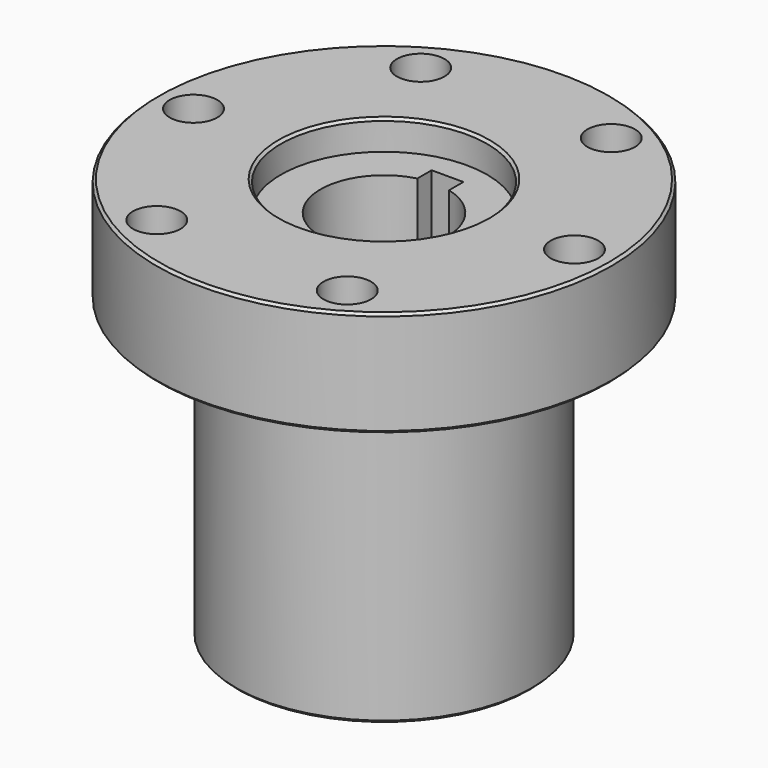
from build123d import *

# Parameters (mm, degrees)
F0_R      = 68.2625
F0_R_2    = 7.14375
F0_R_3    = 19.05
F1_DEPTH  = 31.75
F2_R      = 30.95625
F3_DEPTH  = 8.89
F4_R      = 44.45
F4_R_2    = 19.05
F5_DEPTH  = 88.9
F7_DEPTH  = 120.651
F8_SIZE   = 0.762
F9_R      = 1.5875
F10_DEPTH = 76.2


with BuildPart() as f1:
    # F0 (on Top) → F1 (new body)
    with BuildSketch(Plane.XY):
        Circle(F0_R)
        with Locations((-28.575, -49.493352)):
            Circle(F0_R_2, mode=Mode.SUBTRACT)
        with Locations((28.575, -49.493352)):
            Circle(F0_R_2, mode=Mode.SUBTRACT)
        with Locations((-57.15, 0)):
            Circle(F0_R_2, mode=Mode.SUBTRACT)
        with Locations((-28.575, 49.493352)):
            Circle(F0_R_2, mode=Mode.SUBTRACT)
        Circle(F0_R_3, mode=Mode.SUBTRACT)
        with Locations((57.15, 0)):
            Circle(F0_R_2, mode=Mode.SUBTRACT)
        with Locations((28.575, 49.493352)):
            Circle(F0_R_2, mode=Mode.SUBTRACT)
    extrude(amount=F1_DEPTH)

    # F2 (on face) → F3 (cut)
    with BuildSketch(Plane.XY.offset(31.75)):
        Circle(F2_R)
    extrude(amount=-F3_DEPTH, mode=Mode.SUBTRACT)

    # F4 (on face) → F5 (join)
    with BuildSketch(Plane(origin=(0, 0, 0), x_dir=(1, 0, 0), z_dir=(0, 0, -1))):
        Circle(F4_R)
        Circle(F4_R_2, mode=Mode.SUBTRACT)
    extrude(amount=F5_DEPTH)

    # F6 (on face) → F7 (cut, through all)
    with BuildSketch(Plane(origin=(0, 0, -88.9), x_dir=(1, 0, 0), z_dir=(0, 0, -1))):
        Polygon((4.7625, -10.517543), (0, -10.517543), (0, -19.05), (0, -23.8125), (4.7625, -23.8125), align=None)
        Polygon((0, -19.05), (0, -10.517543), (-4.7625, -10.517543), (-4.7625, -23.8125), (0, -23.8125), align=None)
    extrude(amount=-F7_DEPTH, mode=Mode.SUBTRACT)

    # F8
    f8_edges = [f1.edges().sort_by_distance(p)[0] for p in [
        (-68.2625, 0, 31.75),
        (-68.2625, 0, 0),
        (-30.95625, 0, 31.75),
        (-44.45, 0, -88.9),
    ]]
    chamfer(f8_edges, length=F8_SIZE)

    # F9 (on Front) → F10 (cut)
    with BuildSketch(Plane.XZ):
        with Locations((0, -69.271334)):
            Circle(F9_R)
    extrude(amount=-F10_DEPTH, mode=Mode.SUBTRACT)


solid = f1.part
